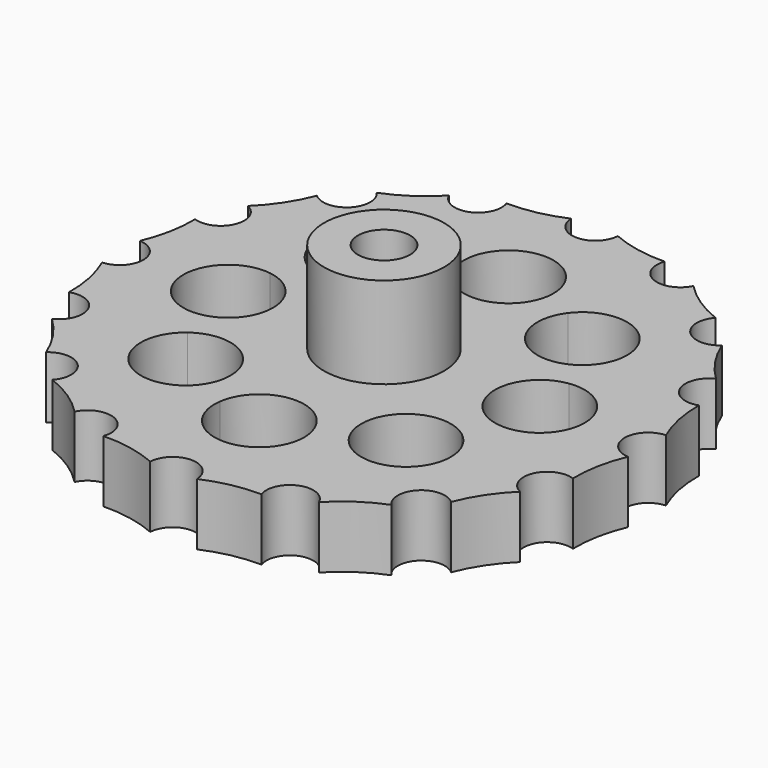
from build123d import *

# Parameters (mm, degrees)
F3_DEPTH = 15.501
F5_DEPTH = 25


with BuildPart() as f1:
    # F0 (on Front) → F1 (revolve)
    with BuildSketch(Plane.XZ):
        Polygon((9.2, 29.5), (4, 29.5), (4, 0), (9.2, 0), (9.2, 6), (40.5, 6), (40.5, 15.5), (9.2, 15.5), align=None)
    revolve(axis=Axis((0, 0, 0.1838468015), (0, 0, -1)))

    # F2 (on face) → F3 (cut, through all)
    with BuildSketch(Plane.XY.offset(15.5)):
        with BuildLine():
            ThreePointArc((40.5, 0), (40.4599802274, 1.8), (40.34, 3.5964426869))
            ThreePointArc((40.34, 3.5964426869), (36.9000513354, 0.0192253002), (40.3015970682, -3.5945286585))
            ThreePointArc((40.3015970682, -3.5945286585), (40.3207959787, -3.5955369444), (40.34, -3.5964426869))
            ThreePointArc((40.34, -3.5964426869), (40.4599802274, -1.8), (40.5, 0))
        make_face()
        with BuildLine():
            ThreePointArc((35.8930013098, 18.7601294499), (37.4171210667, 15.4986790108), (38.6455993732, 12.1147698734))
            ThreePointArc((38.6455993732, 12.1147698734), (40.3652155278, 13.43258631), (41.0171210667, 15.4986790108))
            ThreePointArc((41.0171210667, 15.4986790108), (39.3501457529, 18.5356866766), (35.8930013098, 18.7601294499))
        make_face()
        with BuildLine():
            ThreePointArc((25.981618541, 31.0677565651), (28.6378246381, 28.6378246381), (31.0677565651, 25.981618541))
            ThreePointArc((31.0677565651, 25.981618541), (31.9323469811, 27.1865760269), (32.2378246381, 28.6378246381))
            ThreePointArc((32.2378246381, 28.6378246381), (29.9412159935, 31.9935914617), (25.981618541, 31.0677565651))
        make_face()
        with BuildLine():
            ThreePointArc((12.1147698734, 38.6455993732), (15.4986790108, 37.4171210667), (18.7601294499, 35.8930013098))
            ThreePointArc((18.7601294499, 35.8930013098), (19.0130225897, 36.6364872155), (19.0986790108, 37.4171210667))
            ThreePointArc((19.0986790108, 37.4171210667), (16.1223484365, 40.962686811), (12.1147698734, 38.6455993732))
        make_face()
        with BuildLine():
            ThreePointArc((-3.5964426869, 40.34), (0, 40.5), (3.5964426869, 40.34))
            ThreePointArc((3.5964426869, 40.34), (3.5991105618, 40.4199802298), (3.6, 40.5))
            ThreePointArc((3.6, 40.5), (-0.0800197702, 44.0991105618), (-3.5964426869, 40.34))
        make_face()
        with BuildLine():
            ThreePointArc((-18.7601294499, 35.8930013098), (-15.4986790108, 37.4171210667), (-12.1147698734, 38.6455993732))
            ThreePointArc((-12.1147698734, 38.6455993732), (-16.8763393673, 40.7430873837), (-18.7601294499, 35.8930013098))
        make_face()
        with BuildLine():
            ThreePointArc((-31.0677565651, 25.981618541), (-28.6378246381, 28.6378246381), (-25.981618541, 31.0677565651))
            ThreePointArc((-25.981618541, 31.0677565651), (-31.1834090503, 31.1834090503), (-31.0677565651, 25.981618541))
        make_face()
        with BuildLine():
            ThreePointArc((-38.6455993732, 12.1147698734), (-37.4171210667, 15.4986790108), (-35.8930013098, 18.7601294499))
            ThreePointArc((-35.8930013098, 18.7601294499), (-40.7430873837, 16.8763393673), (-38.6455993732, 12.1147698734))
        make_face()
        with BuildLine():
            ThreePointArc((-40.34, -3.5964426869), (-40.5, 0), (-40.34, 3.5964426869))
            ThreePointArc((-40.34, 3.5964426869), (-44.1, 0), (-40.34, -3.5964426869))
        make_face()
        with BuildLine():
            ThreePointArc((-38.6455993732, -12.1147698734), (-40.7430873837, -16.8763393673), (-35.8930013098, -18.7601294499))
            ThreePointArc((-35.8930013098, -18.7601294499), (-37.4171210667, -15.4986790108), (-38.6455993732, -12.1147698734))
        make_face()
        with BuildLine():
            ThreePointArc((-31.0677565651, -25.981618541), (-31.1834090503, -31.1834090503), (-25.981618541, -31.0677565651))
            ThreePointArc((-25.981618541, -31.0677565651), (-28.6378246381, -28.6378246381), (-31.0677565651, -25.981618541))
        make_face()
        with BuildLine():
            ThreePointArc((-18.7601294499, -35.8930013098), (-16.8763393673, -40.7430873837), (-12.1147698734, -38.6455993732))
            ThreePointArc((-12.1147698734, -38.6455993732), (-15.4986790108, -37.4171210667), (-18.7601294499, -35.8930013098))
        make_face()
        with BuildLine():
            ThreePointArc((3.6, -40.5), (3.5991105618, -40.4199802298), (3.5964426869, -40.34))
            ThreePointArc((3.5964426869, -40.34), (0, -40.5), (-3.5964426869, -40.34))
            ThreePointArc((-3.5964426869, -40.34), (-0.0800197702, -44.0991105618), (3.6, -40.5))
        make_face()
        with BuildLine():
            ThreePointArc((19.0986790108, -37.4171210667), (19.0130225897, -36.6364872155), (18.7601294499, -35.8930013098))
            ThreePointArc((18.7601294499, -35.8930013098), (15.4986790108, -37.4171210667), (12.1147698734, -38.6455993732))
            ThreePointArc((12.1147698734, -38.6455993732), (16.1223484365, -40.962686811), (19.0986790108, -37.4171210667))
        make_face()
        with BuildLine():
            ThreePointArc((32.2378246381, -28.6378246381), (31.9323469811, -27.1865760269), (31.0677565651, -25.981618541))
            ThreePointArc((31.0677565651, -25.981618541), (28.6378246381, -28.6378246381), (25.981618541, -31.0677565651))
            ThreePointArc((25.981618541, -31.0677565651), (29.9412159935, -31.9935914617), (32.2378246381, -28.6378246381))
        make_face()
        with BuildLine():
            ThreePointArc((41.0171210667, -15.4986790108), (40.3652155278, -13.43258631), (38.6455993732, -12.1147698734))
            ThreePointArc((38.6455993732, -12.1147698734), (37.4171210667, -15.4986790108), (35.8930013098, -18.7601294499))
            ThreePointArc((35.8930013098, -18.7601294499), (39.3501457529, -18.5356866766), (41.0171210667, -15.4986790108))
        make_face()
        with BuildLine():
            ThreePointArc((40.5, 0), (40.4599802274, 1.8), (40.34, 3.5964426869))
            ThreePointArc((40.34, 3.5964426869), (36.9000513354, 0.0192253002), (40.3015970682, -3.5945286585))
            ThreePointArc((40.3015970682, -3.5945286585), (40.3207959787, -3.5955369444), (40.34, -3.5964426869))
            ThreePointArc((40.34, -3.5964426869), (40.4599802274, -1.8), (40.5, 0))
        make_face()
        with BuildLine():
            ThreePointArc((35.8930013098, 18.7601294499), (34.0838449735, 14.1388001609), (38.6093872236, 12.1018420393))
            ThreePointArc((38.6093872236, 12.1018420393), (38.6275105584, 12.1082576095), (38.6455993732, 12.1147698734))
            ThreePointArc((38.6455993732, 12.1147698734), (37.4171210667, 15.4986790108), (35.8930013098, 18.7601294499))
        make_face()
        with BuildLine():
            ThreePointArc((25.981618541, 31.0677565651), (26.0786821852, 26.1058708656), (31.0392481691, 25.95581699))
            ThreePointArc((31.0392481691, 25.95581699), (31.0535368148, 25.9686797039), (31.0677565651, 25.981618541))
            ThreePointArc((31.0677565651, 25.981618541), (28.6378246381, 28.6378246381), (25.981618541, 31.0677565651))
        make_face()
        with BuildLine():
            ThreePointArc((12.1147698734, 38.6455993732), (14.1032764381, 34.0985593813), (18.7436649524, 35.8582540941))
            ThreePointArc((18.7436649524, 35.8582540941), (18.7519435922, 35.8756057202), (18.7601294499, 35.8930013098))
            ThreePointArc((18.7601294499, 35.8930013098), (15.4986790108, 37.4171210667), (12.1147698734, 38.6455993732))
        make_face()
        with BuildLine():
            ThreePointArc((-3.5964426869, 40.34), (-0.0192253002, 36.9000513354), (3.5945286585, 40.3015970682))
            ThreePointArc((3.5945286585, 40.3015970682), (3.5955369444, 40.3207959787), (3.5964426869, 40.34))
            ThreePointArc((3.5964426869, 40.34), (0, 40.5), (-3.5964426869, 40.34))
        make_face()
        with BuildLine():
            ThreePointArc((-11.8986790108, 37.4171210667), (-11.9498332056, 38.0218469974), (-12.1018420393, 38.6093872236))
            ThreePointArc((-12.1018420393, 38.6093872236), (-12.1082576095, 38.6275105584), (-12.1147698734, 38.6455993732))
            ThreePointArc((-12.1147698734, 38.6455993732), (-15.4986790108, 37.4171210667), (-18.7601294499, 35.8930013098))
            ThreePointArc((-18.7601294499, 35.8930013098), (-14.7180451596, 33.9027774878), (-11.8986790108, 37.4171210667))
        make_face()
        with BuildLine():
            ThreePointArc((-25.0378246381, 28.6378246381), (-25.2751450865, 29.9232764005), (-25.95581699, 31.0392481691))
            ThreePointArc((-25.95581699, 31.0392481691), (-25.9686797039, 31.0535368148), (-25.981618541, 31.0677565651))
            ThreePointArc((-25.981618541, 31.0677565651), (-28.6378246381, 28.6378246381), (-31.0677565651, 25.981618541))
            ThreePointArc((-31.0677565651, 25.981618541), (-27.1865760269, 25.343302295), (-25.0378246381, 28.6378246381))
        make_face()
        with BuildLine():
            ThreePointArc((-33.8171210667, 15.4986790108), (-34.3698336581, 17.4154574146), (-35.8582540941, 18.7436649524))
            ThreePointArc((-35.8582540941, 18.7436649524), (-35.8756057202, 18.7519435922), (-35.8930013098, 18.7601294499))
            ThreePointArc((-35.8930013098, 18.7601294499), (-37.4171210667, 15.4986790108), (-38.6455993732, 12.1147698734))
            ThreePointArc((-38.6455993732, 12.1147698734), (-35.3510283659, 12.5505845497), (-33.8171210667, 15.4986790108))
        make_face()
        with BuildLine():
            ThreePointArc((-36.9, 0), (-37.8852102805, 2.4744443261), (-40.3015970682, 3.5945286585))
            ThreePointArc((-40.3015970682, 3.5945286585), (-40.3207959787, 3.5955369444), (-40.34, 3.5964426869))
            ThreePointArc((-40.34, 3.5964426869), (-40.5, 0), (-40.34, -3.5964426869))
            ThreePointArc((-40.34, -3.5964426869), (-37.8984619934, -2.4883729624), (-36.9, 0))
        make_face()
        with BuildLine():
            ThreePointArc((-38.6455993732, -12.1147698734), (-37.4171210667, -15.4986790108), (-35.8930013098, -18.7601294499))
            ThreePointArc((-35.8930013098, -18.7601294499), (-34.3801134009, -17.431703697), (-33.8171210667, -15.4986790108))
            ThreePointArc((-33.8171210667, -15.4986790108), (-35.3353139388, -12.5616602702), (-38.6093872236, -12.1018420393))
            ThreePointArc((-38.6093872236, -12.1018420393), (-38.6275105584, -12.1082576095), (-38.6455993732, -12.1147698734))
        make_face()
        with BuildLine():
            ThreePointArc((-31.0677565651, -25.981618541), (-28.6378246381, -28.6378246381), (-25.981618541, -31.0677565651))
            ThreePointArc((-25.981618541, -31.0677565651), (-25.2820578144, -29.9412159935), (-25.0378246381, -28.6378246381))
            ThreePointArc((-25.0378246381, -28.6378246381), (-27.1690027823, -25.3510994661), (-31.0392481691, -25.95581699))
            ThreePointArc((-31.0392481691, -25.95581699), (-31.0535368148, -25.9686797039), (-31.0677565651, -25.981618541))
        make_face()
        with BuildLine():
            ThreePointArc((-18.7601294499, -35.8930013098), (-15.4986790108, -37.4171210667), (-12.1147698734, -38.6455993732))
            ThreePointArc((-12.1147698734, -38.6455993732), (-11.9531132665, -38.0407904925), (-11.8986790108, -37.4171210667))
            ThreePointArc((-11.8986790108, -37.4171210667), (-14.6992884273, -33.9069964685), (-18.7436649524, -35.8582540941))
            ThreePointArc((-18.7436649524, -35.8582540941), (-18.7519435922, -35.8756057202), (-18.7601294499, -35.8930013098))
        make_face()
        with BuildLine():
            ThreePointArc((-3.5964426869, -40.34), (0, -40.5), (3.5964426869, -40.34))
            ThreePointArc((3.5964426869, -40.34), (0.0192253002, -36.9000513354), (-3.5945286585, -40.3015970682))
            ThreePointArc((-3.5945286585, -40.3015970682), (-3.5955369444, -40.3207959787), (-3.5964426869, -40.34))
        make_face()
        with BuildLine():
            ThreePointArc((12.1147698734, -38.6455993732), (15.4986790108, -37.4171210667), (18.7601294499, -35.8930013098))
            ThreePointArc((18.7601294499, -35.8930013098), (14.1388001609, -34.0838449735), (12.1018420393, -38.6093872236))
            ThreePointArc((12.1018420393, -38.6093872236), (12.1082576095, -38.6275105584), (12.1147698734, -38.6455993732))
        make_face()
        with BuildLine():
            ThreePointArc((25.981618541, -31.0677565651), (28.6378246381, -28.6378246381), (31.0677565651, -25.981618541))
            ThreePointArc((31.0677565651, -25.981618541), (26.1058708656, -26.0786821852), (25.95581699, -31.0392481691))
            ThreePointArc((25.95581699, -31.0392481691), (25.9686797039, -31.0535368148), (25.981618541, -31.0677565651))
        make_face()
        with BuildLine():
            ThreePointArc((35.8930013098, -18.7601294499), (37.4171210667, -15.4986790108), (38.6455993732, -12.1147698734))
            ThreePointArc((38.6455993732, -12.1147698734), (34.0985593813, -14.1032764381), (35.8582540941, -18.7436649524))
            ThreePointArc((35.8582540941, -18.7436649524), (35.8756057202, -18.7519435922), (35.8930013098, -18.7601294499))
        make_face()
        with BuildLine():
            ThreePointArc((38.6093872236, 12.1018420393), (39.0153553356, 7.7556797687), (40.34, 3.5964426869))
            ThreePointArc((40.34, 3.5964426869), (39.7218038563, 7.9011580417), (38.6455993732, 12.1147698734))
            ThreePointArc((38.6455993732, 12.1147698734), (38.6275105584, 12.1082576095), (38.6093872236, 12.1018420393))
        make_face()
        with BuildLine():
            ThreePointArc((31.0392481691, 25.95581699), (33.077518094, 22.0958438938), (35.8930013098, 18.7601294499))
            ThreePointArc((35.8930013098, 18.7601294499), (33.6745192983, 22.5005944373), (31.0677565651, 25.981618541))
            ThreePointArc((31.0677565651, 25.981618541), (31.0535368148, 25.9686797039), (31.0392481691, 25.95581699))
        make_face()
        with BuildLine():
            ThreePointArc((25.981618541, -31.0677565651), (25.9686797039, -31.0535368148), (25.95581699, -31.0392481691))
            ThreePointArc((25.95581699, -31.0392481691), (22.0958438938, -33.077518094), (18.7601294499, -35.8930013098))
            ThreePointArc((18.7601294499, -35.8930013098), (22.5005944373, -33.6745192983), (25.981618541, -31.0677565651))
        make_face()
        with BuildLine():
            ThreePointArc((18.7436649524, 35.8582540941), (22.1039285711, 33.0721160854), (25.981618541, 31.0677565651))
            ThreePointArc((25.981618541, 31.0677565651), (22.5005944373, 33.6745192983), (18.7601294499, 35.8930013098))
            ThreePointArc((18.7601294499, 35.8930013098), (18.7519435922, 35.8756057202), (18.7436649524, 35.8582540941))
        make_face()
        with BuildLine():
            ThreePointArc((35.8930013098, -18.7601294499), (35.8756057202, -18.7519435922), (35.8582540941, -18.7436649524))
            ThreePointArc((35.8582540941, -18.7436649524), (33.0721160854, -22.1039285711), (31.0677565651, -25.981618541))
            ThreePointArc((31.0677565651, -25.981618541), (33.6745192983, -22.5005944373), (35.8930013098, -18.7601294499))
        make_face()
        with BuildLine():
            ThreePointArc((38.6455993732, -12.1147698734), (39.7218038563, -7.9011580417), (40.34, -3.5964426869))
            ThreePointArc((40.34, -3.5964426869), (40.3207959787, -3.5955369444), (40.3015970682, -3.5945286585))
            ThreePointArc((40.3015970682, -3.5945286585), (39.0134584025, -7.7652162958), (38.6455993732, -12.1147698734))
        make_face()
        with BuildLine():
            ThreePointArc((-40.3015970682, 3.5945286585), (-39.0134584025, 7.7652162958), (-38.6455993732, 12.1147698734))
            ThreePointArc((-38.6455993732, 12.1147698734), (-39.7218038563, 7.9011580417), (-40.34, 3.5964426869))
            ThreePointArc((-40.34, 3.5964426869), (-40.3207959787, 3.5955369444), (-40.3015970682, 3.5945286585))
        make_face()
        with BuildLine():
            ThreePointArc((-40.34, -3.5964426869), (-39.7218038563, -7.9011580417), (-38.6455993732, -12.1147698734))
            ThreePointArc((-38.6455993732, -12.1147698734), (-38.6275105584, -12.1082576095), (-38.6093872236, -12.1018420393))
            ThreePointArc((-38.6093872236, -12.1018420393), (-39.0153553356, -7.7556797687), (-40.34, -3.5964426869))
        make_face()
        with BuildLine():
            ThreePointArc((-35.8930013098, -18.7601294499), (-33.6745192983, -22.5005944373), (-31.0677565651, -25.981618541))
            ThreePointArc((-31.0677565651, -25.981618541), (-31.0535368148, -25.9686797039), (-31.0392481691, -25.95581699))
            ThreePointArc((-31.0392481691, -25.95581699), (-33.077518094, -22.0958438938), (-35.8930013098, -18.7601294499))
        make_face()
        with BuildLine():
            ThreePointArc((-35.8582540941, 18.7436649524), (-33.0721160854, 22.1039285711), (-31.0677565651, 25.981618541))
            ThreePointArc((-31.0677565651, 25.981618541), (-33.6745192983, 22.5005944373), (-35.8930013098, 18.7601294499))
            ThreePointArc((-35.8930013098, 18.7601294499), (-35.8756057202, 18.7519435922), (-35.8582540941, 18.7436649524))
        make_face()
        with BuildLine():
            ThreePointArc((-25.981618541, -31.0677565651), (-22.5005944373, -33.6745192983), (-18.7601294499, -35.8930013098))
            ThreePointArc((-18.7601294499, -35.8930013098), (-18.7519435922, -35.8756057202), (-18.7436649524, -35.8582540941))
            ThreePointArc((-18.7436649524, -35.8582540941), (-22.1039285711, -33.0721160854), (-25.981618541, -31.0677565651))
        make_face()
        with BuildLine():
            ThreePointArc((-25.95581699, 31.0392481691), (-22.0958438938, 33.077518094), (-18.7601294499, 35.8930013098))
            ThreePointArc((-18.7601294499, 35.8930013098), (-22.5005944373, 33.6745192983), (-25.981618541, 31.0677565651))
            ThreePointArc((-25.981618541, 31.0677565651), (-25.9686797039, 31.0535368148), (-25.95581699, 31.0392481691))
        make_face()
        with BuildLine():
            ThreePointArc((-12.1018420393, 38.6093872236), (-7.7556797687, 39.0153553356), (-3.5964426869, 40.34))
            ThreePointArc((-3.5964426869, 40.34), (-7.9011580417, 39.7218038563), (-12.1147698734, 38.6455993732))
            ThreePointArc((-12.1147698734, 38.6455993732), (-12.1082576095, 38.6275105584), (-12.1018420393, 38.6093872236))
        make_face()
        with BuildLine():
            ThreePointArc((-3.5964426869, -40.34), (-3.5955369444, -40.3207959787), (-3.5945286585, -40.3015970682))
            ThreePointArc((-3.5945286585, -40.3015970682), (-7.7652162958, -39.0134584025), (-12.1147698734, -38.6455993732))
            ThreePointArc((-12.1147698734, -38.6455993732), (-7.9011580417, -39.7218038563), (-3.5964426869, -40.34))
        make_face()
        with BuildLine():
            ThreePointArc((12.1147698734, -38.6455993732), (12.1082576095, -38.6275105584), (12.1018420393, -38.6093872236))
            ThreePointArc((12.1018420393, -38.6093872236), (7.7556797687, -39.0153553356), (3.5964426869, -40.34))
            ThreePointArc((3.5964426869, -40.34), (7.9011580417, -39.7218038563), (12.1147698734, -38.6455993732))
        make_face()
        with BuildLine():
            ThreePointArc((3.5945286585, 40.3015970682), (7.7652162958, 39.0134584025), (12.1147698734, 38.6455993732))
            ThreePointArc((12.1147698734, 38.6455993732), (7.9011580417, 39.7218038563), (3.5964426869, 40.34))
            ThreePointArc((3.5964426869, 40.34), (3.5955369444, 40.3207959787), (3.5945286585, 40.3015970682))
        make_face()
    extrude(amount=-F3_DEPTH, mode=Mode.SUBTRACT)

    # F4 (on face) → F5 (cut)
    with BuildSketch(Plane.XY.offset(15.5)):
        with BuildLine():
            ThreePointArc((22.8978786586, 6.7992686643), (23.6377086915, 3.4353499451), (23.8860398859, 0))
            ThreePointArc((23.8860398859, 0), (23.6377086915, -3.4353499451), (22.8978786586, -6.7992686643))
            ThreePointArc((22.8978786586, -6.7992686643), (28.3814351824, -5.1959540133), (30.756739776, 0))
            ThreePointArc((30.756739776, 0), (28.3814351824, 5.1959540133), (22.8978786586, 6.7992686643))
        make_face()
        with BuildLine():
            ThreePointArc((11.3834362946, 20.9990542539), (16.889980779, 16.889980779), (20.9990542539, 11.3834362946))
            ThreePointArc((20.9990542539, 11.3834362946), (23.0315900002, 13.8098585162), (23.7606806691, 16.889980779))
            ThreePointArc((23.7606806691, 16.889980779), (19.0547789678, 23.4107296457), (11.3834362946, 20.9990542539))
        make_face()
        with BuildLine():
            ThreePointArc((11.3834362946, 20.9990542539), (12.0316622952, 12.0316622952), (20.9990542539, 11.3834362946))
            ThreePointArc((20.9990542539, 11.3834362946), (16.889980779, 16.889980779), (11.3834362946, 20.9990542539))
        make_face()
        with BuildLine():
            ThreePointArc((-6.7992686643, 22.8978786586), (0, 23.8860398859), (6.7992686643, 22.8978786586))
            ThreePointArc((6.7992686643, 22.8978786586), (6.8528188158, 23.3906700667), (6.8706998901, 23.8860398859))
            ThreePointArc((6.8706998901, 23.8860398859), (-0.4953698192, 30.7388587017), (-6.7992686643, 22.8978786586))
        make_face()
        with BuildLine():
            ThreePointArc((-6.7992686643, 22.8978786586), (0, 17.0153399958), (6.7992686643, 22.8978786586))
            ThreePointArc((6.7992686643, 22.8978786586), (0, 23.8860398859), (-6.7992686643, 22.8978786586))
        make_face()
        with BuildLine():
            ThreePointArc((-10.0192808889, 16.889980779), (-10.3692319124, 19.0547789678), (-11.3834362946, 20.9990542539))
            ThreePointArc((-11.3834362946, 20.9990542539), (-16.889980779, 16.889980779), (-20.9990542539, 11.3834362946))
            ThreePointArc((-20.9990542539, 11.3834362946), (-13.8098585162, 10.7483715578), (-10.0192808889, 16.889980779))
        make_face()
        with BuildLine():
            ThreePointArc((-20.9990542539, 11.3834362946), (-16.889980779, 16.889980779), (-11.3834362946, 20.9990542539))
            ThreePointArc((-11.3834362946, 20.9990542539), (-21.7482992628, 21.7482992628), (-20.9990542539, 11.3834362946))
        make_face()
        with BuildLine():
            ThreePointArc((-22.8978786586, -6.7992686643), (-23.8860398859, 0), (-22.8978786586, 6.7992686643))
            ThreePointArc((-22.8978786586, 6.7992686643), (-30.756739776, 0), (-22.8978786586, -6.7992686643))
        make_face()
        with BuildLine():
            ThreePointArc((-17.0153399958, 0), (-18.6900858726, 4.4953952965), (-22.8978786586, 6.7992686643))
            ThreePointArc((-22.8978786586, 6.7992686643), (-23.8860398859, 0), (-22.8978786586, -6.7992686643))
            ThreePointArc((-22.8978786586, -6.7992686643), (-18.6900858726, -4.4953952965), (-17.0153399958, 0))
        make_face()
        with BuildLine():
            ThreePointArc((-20.9990542539, -11.3834362946), (-21.7482992628, -21.7482992628), (-11.3834362946, -20.9990542539))
            ThreePointArc((-11.3834362946, -20.9990542539), (-16.889980779, -16.889980779), (-20.9990542539, -11.3834362946))
        make_face()
        with BuildLine():
            ThreePointArc((-20.9990542539, -11.3834362946), (-16.889980779, -16.889980779), (-11.3834362946, -20.9990542539))
            ThreePointArc((-11.3834362946, -20.9990542539), (-10.3692319124, -19.0547789678), (-10.0192808889, -16.889980779))
            ThreePointArc((-10.0192808889, -16.889980779), (-13.8098585162, -10.7483715578), (-20.9990542539, -11.3834362946))
        make_face()
        with BuildLine():
            ThreePointArc((-6.7992686643, -22.8978786586), (0, -23.8860398859), (6.7992686643, -22.8978786586))
            ThreePointArc((6.7992686643, -22.8978786586), (0, -17.0153399958), (-6.7992686643, -22.8978786586))
        make_face()
        with BuildLine():
            ThreePointArc((6.8706998901, -23.8860398859), (6.8528188158, -23.3906700667), (6.7992686643, -22.8978786586))
            ThreePointArc((6.7992686643, -22.8978786586), (0, -23.8860398859), (-6.7992686643, -22.8978786586))
            ThreePointArc((-6.7992686643, -22.8978786586), (-0.4953698192, -30.7388587017), (6.8706998901, -23.8860398859))
        make_face()
        with BuildLine():
            ThreePointArc((11.3834362946, -20.9990542539), (16.889980779, -16.889980779), (20.9990542539, -11.3834362946))
            ThreePointArc((20.9990542539, -11.3834362946), (12.0316622952, -12.0316622952), (11.3834362946, -20.9990542539))
        make_face()
        with BuildLine():
            ThreePointArc((23.7606806691, -16.889980779), (23.0315900002, -13.8098585162), (20.9990542539, -11.3834362946))
            ThreePointArc((20.9990542539, -11.3834362946), (16.889980779, -16.889980779), (11.3834362946, -20.9990542539))
            ThreePointArc((11.3834362946, -20.9990542539), (19.0547789678, -23.4107296457), (23.7606806691, -16.889980779))
        make_face()
        with BuildLine():
            ThreePointArc((22.8978786586, -6.7992686643), (23.6377086915, -3.4353499451), (23.8860398859, 0))
            ThreePointArc((23.8860398859, 0), (23.6377086915, 3.4353499451), (22.8978786586, 6.7992686643))
            ThreePointArc((22.8978786586, 6.7992686643), (17.0153399958, 0), (22.8978786586, -6.7992686643))
        make_face()
    extrude(amount=-F5_DEPTH, mode=Mode.SUBTRACT)


solid = f1.part
